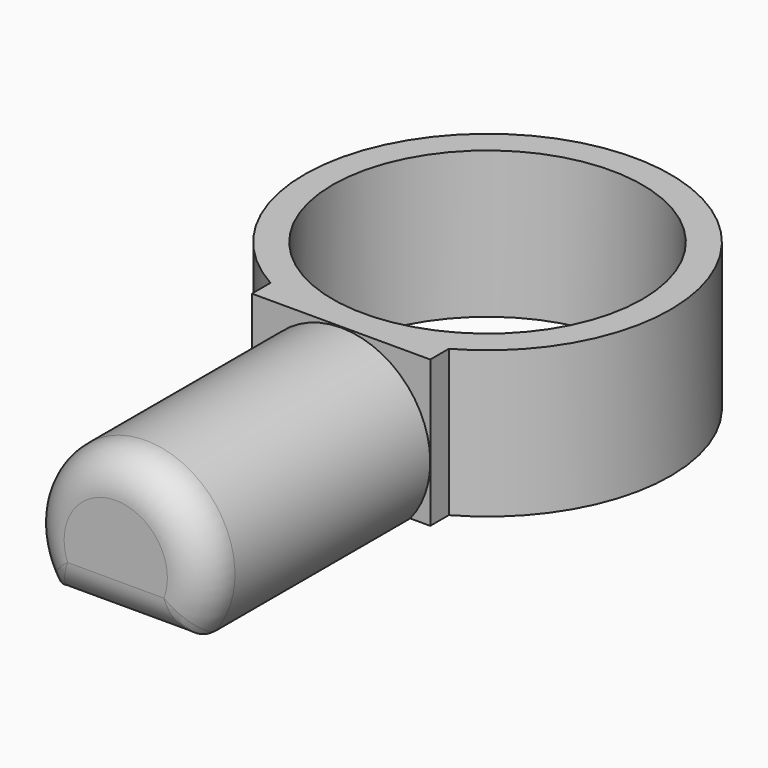
from build123d import *

# Parameters (mm, degrees)
PAD_DEPTH     = 15
SKETCH001_R   = 9.75
SKETCH001_R_2 = 8.25
PAD001_DEPTH  = 7.8
FILLET_R      = 2


with BuildPart() as part:
    # Sketch → Pad (new body)
    with BuildSketch(Plane.XZ):
        with BuildLine():
            ThreePointArc((3.68273, 0), (0, 7.75), (-3.68273, 0))
            Line((-3.68273, 0), (3.68273, 0))
        make_face()
    extrude(amount=PAD_DEPTH)

    # Sketch001 → Pad001 (join)
    with BuildSketch(Plane.XY):
        with Locations((0, 9.75)):
            Circle(SKETCH001_R)
        with Locations((0, 9.75)):
            Circle(SKETCH001_R_2, mode=Mode.SUBTRACT)
        Polygon((-4.75, 0), (-4.75, 1.235307), (0, 0), (4.75, 1.235307), (4.75, 0), align=None)
    extrude(amount=PAD001_DEPTH)

    # Fillet
    fillet_edges = [part.edges().sort_by_distance(p)[0] for p in [
        (0, -15, 7.75),
        (0, -15, 0),
    ]]
    fillet(fillet_edges, radius=FILLET_R)


solid = part.part
